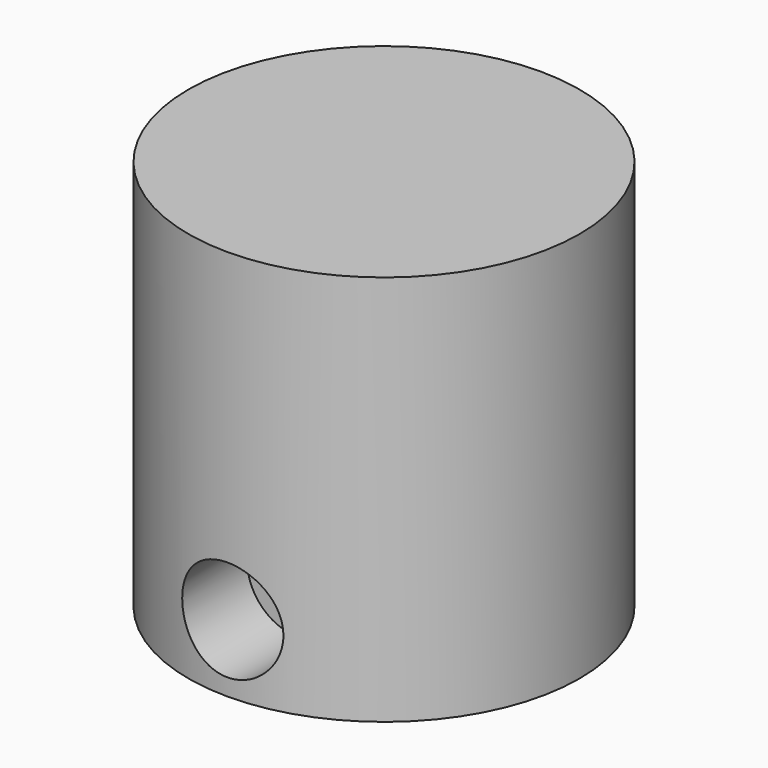
from build123d import *

# Parameters (mm, degrees)
CYLINDER215_R     = 3.75
CYLINDER215_DEPTH = 10
CYLINDER211_R     = 14.5
CYLINDER211_DEPTH = 29


with BuildPart() as cylinder215:
    # Cylinder215 → Cylinder215 (new body)
    with BuildSketch(Plane(origin=(0, -8, -36.5), x_dir=(1, 0, 0), z_dir=(0, -1, 0))):
        Circle(CYLINDER215_R)
    extrude(amount=CYLINDER215_DEPTH)


with BuildPart() as base011:
    # Cylinder211 → Cylinder211 (new body)
    with BuildSketch(Plane.XY.offset(-41.5)):
        Circle(CYLINDER211_R)
    extrude(amount=CYLINDER211_DEPTH)

    # Cut152: cut Cylinder215
    add(cylinder215.part, mode=Mode.SUBTRACT)


solid = base011.part
